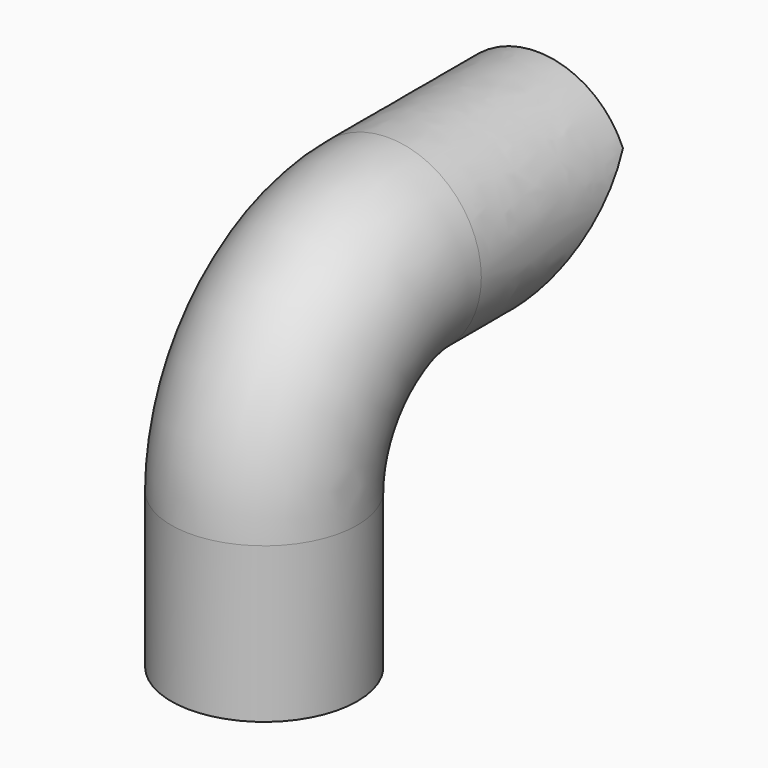
from build123d import *

# Parameters (mm, degrees)
F1_R     = 3.002
F4_DEPTH = 12.5


with BuildPart() as f2:
    # F2: sweep along a path in F0
    with BuildLine(Plane.YZ) as f2_path:
        Line((0, 0), (0, 5))
        ThreePointArc((0, 5), (1.464466, 8.535534), (5, 10))
        Line((5, 10), (11, 10))
    # F1 (on Top) → F2 (sweep)
    with BuildSketch(Plane.XY):
        Circle(F1_R)
    sweep(path=f2_path.line)

    # F3 (on Right) → F4 (cut, symmetric)
    with BuildSketch(Plane.YZ):
        Polygon((11, 11.156311), (6.841689, 6.998), (11, 6.998), align=None)
    extrude(amount=F4_DEPTH, both=True, mode=Mode.SUBTRACT)


with BuildPart() as f5:
    # F5: sweep along a path in F0
    with BuildLine(Plane.YZ) as f5_path:
        Line((0, 0), (0, 5))
    # F1 (on Top) → F5 (sweep)
    with BuildSketch(Plane.XY):
        Circle(F1_R)
    sweep(path=f5_path.line)


solid = Compound([f2.part, f5.part])
